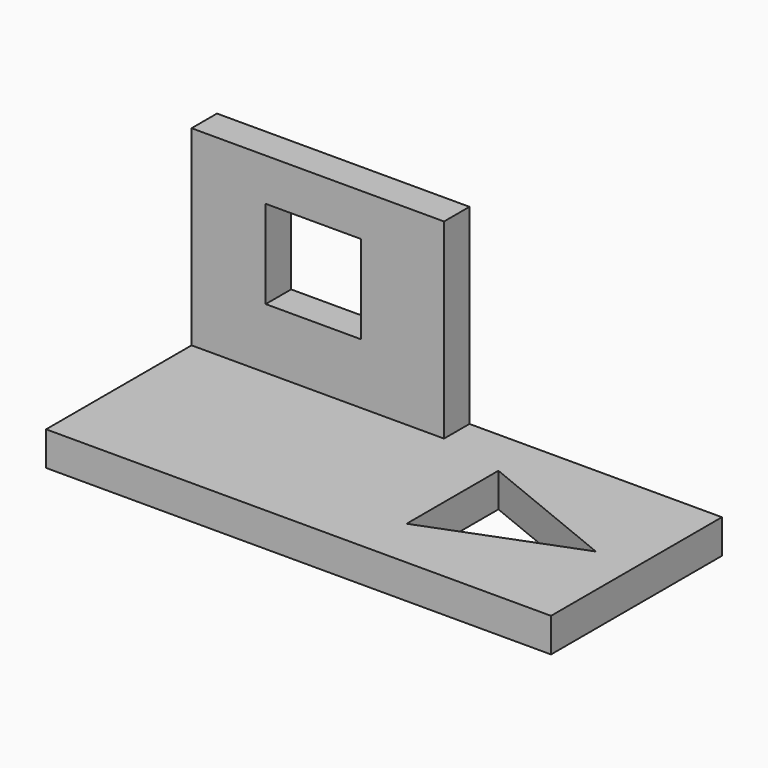
from build123d import *

# Parameters (mm, degrees)
F0_W     = 79.592556
F0_H     = 33.673774
F1_DEPTH = 5.36271
F2_W     = 39.796278
F2_H     = 5.009321
F3_DEPTH = 30.13103
F4_W     = 15.027966
F4_H     = 13.914786
F5_DEPTH = 5.010321
F7_DEPTH = 5.36371


with BuildPart() as f1:
    # F0 (on Top) → F1 (new body)
    with BuildSketch(Plane.XY):
        Rectangle(F0_W, F0_H)
    extrude(amount=F1_DEPTH)

    # F2 (on face) → F3 (join)
    with BuildSketch(Plane.XY.offset(5.36271)):
        with Locations((-19.898139, 14.332227)):
            Rectangle(F2_W, F2_H)
    extrude(amount=F3_DEPTH)

    # F4 (on face) → F5 (cut, through all)
    with BuildSketch(Plane.XZ.offset(-11.827566)):
        with Locations((-20.593878, 21.846209)):
            Rectangle(F4_W, F4_H)
    extrude(amount=-F5_DEPTH, mode=Mode.SUBTRACT)

    # F6 (on face) → F7 (cut, through all)
    with BuildSketch(Plane.XY.offset(5.36271)):
        Polygon((33.39548, 0), (10.575234, 9.322904), (10.575234, -8.766313), align=None)
    extrude(amount=-F7_DEPTH, mode=Mode.SUBTRACT)


solid = f1.part
